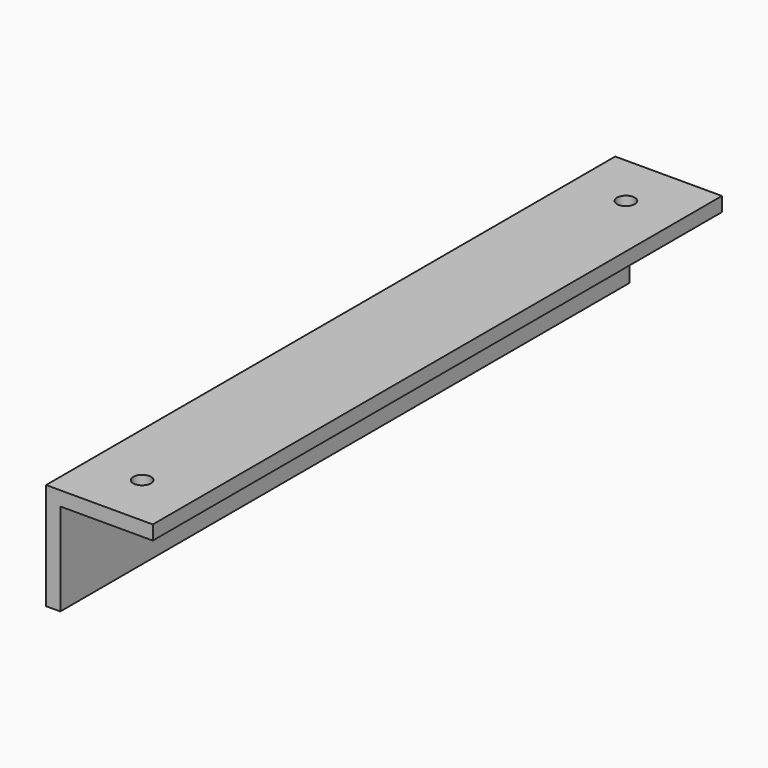
from build123d import *

# Parameters (mm, degrees)
F1_DEPTH = 200
F4_D     = 3
F6_D     = 5


with BuildPart() as f1:
    # F0 (on Front) → F1 (new body)
    with BuildSketch(Plane.XZ):
        Polygon((-11.212291, -34.163514), (14.787709, -34.163514), (14.787709, -30.163514), (-15.212291, -30.163514), (-15.212291, -60.163514), (-11.212291, -60.163514), align=None)
    extrude(amount=-F1_DEPTH)

    # F4 (through all)
    with Locations(Plane(origin=(-15.212291, 0, 0), x_dir=(0, -1, 0), z_dir=(-1, 0, 0))):
        with Locations((-20, -45.163514), (-80, -45.163514), (-180, -45.163514)):
            Hole(F4_D / 2)

    # F6 (through all)
    with Locations(Plane.XY.offset(-30.163514)):
        with Locations((-0.212291, 185), (-0.212291, 15)):
            Hole(F6_D / 2)


solid = f1.part
